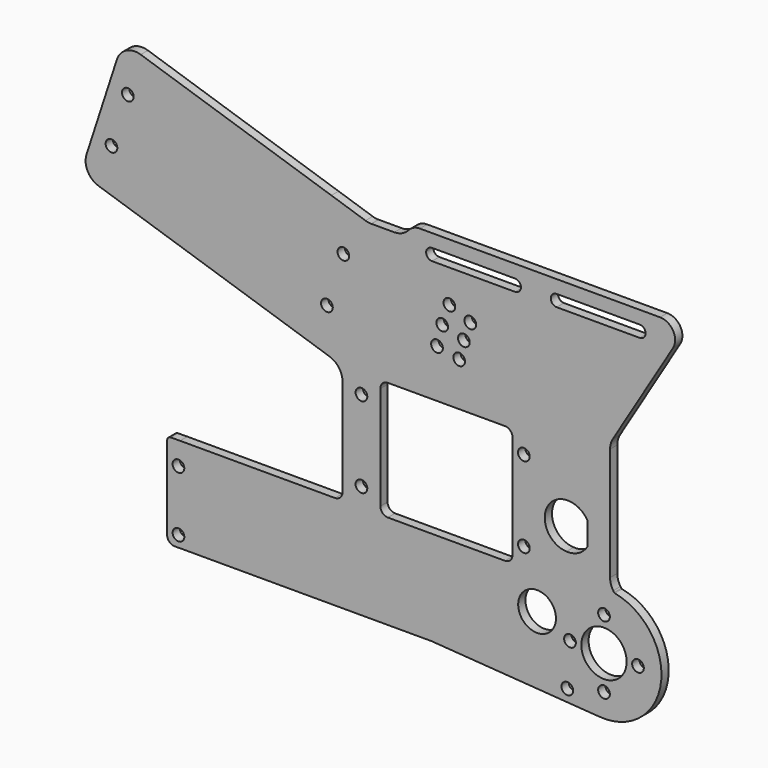
from build123d import *

# Parameters (mm, degrees)
F0_R     = 1.55
F0_R_2   = 5
F0_R_3   = 6
F1_DEPTH = 2.4


with BuildPart() as f1:
    # F0 (on Front) → F1 (new body)
    with BuildSketch(Plane.XZ):
        with BuildLine():
            Line((-113.922411, -36.624175), (-112.515368, -36.601163))
            Line((-112.515368, -36.601163), (-45.969084, -36.601163))
            Line((-45.969084, -36.601163), (-1.763381, -39.740575))
            ThreePointArc((-1.763381, -39.740575), (14.757574, -26.757854), (2.545472, -9.659388))
            ThreePointArc((2.545472, -9.659388), (2.450522, -9.620676), (2.378003, -9.548185))
            Line((2.378003, -9.548185), (2.141578, -9.192446))
            ThreePointArc((2.141578, -9.192446), (1.519301, -7.870399), (1.305798, -6.424906))
            Line((1.305798, -6.424906), (1.305798, 23.520728))
            ThreePointArc((1.305798, 23.520728), (1.489272, 24.862771), (2.026229, 26.106321))
            Line((2.026229, 26.106321), (17.961467, 52.481679))
            ThreePointArc((17.961467, 52.481679), (18.021625, 56.515619), (14.537812, 58.550154))
            Line((14.537812, 58.550154), (-28.732704, 58.550154))
            Line((-28.732704, 58.550154), (-49.044828, 58.550154))
            ThreePointArc((-49.044828, 58.550154), (-50.662338, 58.208523), (-52.003552, 57.241984))
            Line((-52.003552, 57.241984), (-52.11812, 57.116057))
            ThreePointArc((-52.11812, 57.116057), (-53.794637, 55.907885), (-55.816525, 55.480845))
            Line((-55.816525, 55.480845), (-61.90531, 55.480845))
            ThreePointArc((-61.90531, 55.480845), (-62.687482, 55.542404), (-63.450395, 55.725563))
            Line((-63.450395, 55.725563), (-72.478836, 58.659081))
            Line((-72.478836, 58.659081), (-122.961926, 75.062031))
            ThreePointArc((-122.961926, 75.062031), (-126.776963, 74.761781), (-129.262293, 71.851834))
            Line((-129.262293, 71.851834), (-129.57131, 70.900777))
            Line((-129.57131, 70.900777), (-74.332938, 52.952742))
            Line((-74.332938, 52.952742), (-68.495444, 51.056025))
            Line((-68.495444, 51.056025), (-62.997354, 49.269588))
            Line((-62.997354, 49.269588), (-70.440539, 26.36182))
            Line((-70.440539, 26.36182), (-75.938629, 28.148258))
            Line((-75.938629, 28.148258), (-81.749346, 30.127386))
            Line((-81.749346, 30.127386), (-115.36281, 41.049062))
            Line((-115.36281, 41.049062), (-136.987718, 48.075421))
            Line((-136.987718, 48.075421), (-137.296735, 47.124364))
            ThreePointArc((-137.296735, 47.124364), (-137.251084, 43.900182), (-135.246711, 41.374332))
            ThreePointArc((-135.246711, 41.374332), (-134.684364, 41.061766), (-134.086537, 40.823997))
            Line((-134.086537, 40.823997), (-72.970283, 20.966122))
            ThreePointArc((-72.970283, 20.966122), (-70.470283, 19.149766), (-69.515368, 16.210839))
            Line((-69.515368, 16.210839), (-69.515368, -9.553598))
            ThreePointArc((-69.515368, -9.553598), (-70.101155, -10.967812), (-71.515368, -11.553598))
            Line((-71.515368, -11.553598), (-74.523215, -11.553598))
            Line((-74.523215, -11.553598), (-112.515368, -11.553598))
            ThreePointArc((-112.515368, -11.553598), (-112.528511, -11.553641), (-112.541654, -11.553771))
            Line((-112.541654, -11.553771), (-114.961689, -11.569675))
            ThreePointArc((-114.961689, -11.569675), (-115.664544, -11.864874), (-115.955117, -12.569653))
            Line((-115.955117, -12.569653), (-115.955117, -34.624443))
            ThreePointArc((-115.955117, -34.624443), (-115.35772, -36.050173), (-113.922411, -36.624175))
        make_face()
        with Locations((-112.955117, -33.601163)):
            Circle(F0_R, mode=Mode.SUBTRACT)
        with Locations((-112.955117, -17.601163)):
            Circle(F0_R, mode=Mode.SUBTRACT)
        with Locations((-64.515368, -6.553598)):
            Circle(F0_R, mode=Mode.SUBTRACT)
        with Locations((-64.515368, 14.843552)):
            Circle(F0_R, mode=Mode.SUBTRACT)
        with Locations((-10.015368, -35.974115)):
            Circle(F0_R, mode=Mode.SUBTRACT)
        with Locations((-0.298833, -33.601163)):
            Circle(F0_R, mode=Mode.SUBTRACT)
        with Locations((-18.015368, -20.601163)):
            Circle(F0_R_2, mode=Mode.SUBTRACT)
        with Locations((-9.298833, -24.601163)):
            Circle(F0_R, mode=Mode.SUBTRACT)
        with Locations((-0.298833, -24.601163)):
            Circle(F0_R_3, mode=Mode.SUBTRACT)
        with Locations((8.701167, -24.601163)):
            Circle(F0_R, mode=Mode.SUBTRACT)
        with Locations((-0.298833, -15.601163)):
            Circle(F0_R, mode=Mode.SUBTRACT)
        with Locations((-21.515368, -6.553598)):
            Circle(F0_R, mode=Mode.SUBTRACT)
        with BuildLine():
            Line((-26.515368, -11.553598), (-57.515368, -11.553598))
            ThreePointArc((-57.515368, -11.553598), (-58.929582, -10.967812), (-59.515368, -9.553598))
            Line((-59.515368, -9.553598), (-59.515368, 17.843552))
            ThreePointArc((-59.515368, 17.843552), (-58.929582, 19.257766), (-57.515368, 19.843552))
            Line((-57.515368, 19.843552), (-26.515368, 19.843552))
            ThreePointArc((-26.515368, 19.843552), (-25.390432, 19.49719), (-24.655131, 18.57807))
            ThreePointArc((-24.655131, 18.57807), (-24.55062, 18.2174), (-24.515368, 17.843552))
            Line((-24.515368, 17.843552), (-24.515368, -9.553598))
            ThreePointArc((-24.515368, -9.553598), (-24.55062, -9.927447), (-24.655131, -10.288116))
            ThreePointArc((-24.655131, -10.288116), (-25.390432, -11.207236), (-26.515368, -11.553598))
        make_face(mode=Mode.SUBTRACT)
        with Locations((-21.515368, 14.843552)):
            Circle(F0_R, mode=Mode.SUBTRACT)
        with BuildLine():
            ThreePointArc((-9.597609, 7.890928), (-6.738423, 7.027389), (-4.649818, 4.892354))
            Line((-4.649818, 4.892354), (-4.649818, -1.10003))
            ThreePointArc((-4.649818, -1.10003), (-4.685937, -1.161841), (-4.722791, -1.223217))
            ThreePointArc((-4.722791, -1.223217), (-7.08024, -3.427238), (-10.238487, -4.091129))
            ThreePointArc((-10.238487, -4.091129), (-15.82221, 0.503221), (-12.932287, 7.13152))
            ThreePointArc((-12.932287, 7.13152), (-11.320202, 7.753855), (-9.597609, 7.890928))
        make_face(mode=Mode.SUBTRACT)
        with Locations((-38.631012, 31.451518)):
            Circle(F0_R, mode=Mode.SUBTRACT)
        with Locations((-44.512843, 32.636452)):
            Circle(F0_R, mode=Mode.SUBTRACT)
        with Locations((-43.13741, 38.056231)):
            Circle(F0_R, mode=Mode.SUBTRACT)
        with Locations((-41.23285, 43.326407)):
            Circle(F0_R, mode=Mode.SUBTRACT)
        with Locations((-37.400858, 36.297828)):
            Circle(F0_R, mode=Mode.SUBTRACT)
        with Locations((-35.702059, 41.000389)):
            Circle(F0_R, mode=Mode.SUBTRACT)
        with BuildLine():
            Line((-23.838282, 52.000154), (-45.838282, 52.000154))
            ThreePointArc((-45.838282, 52.000154), (-47.388282, 53.550154), (-45.838282, 55.100154))
            Line((-45.838282, 55.100154), (-23.838282, 55.100154))
            ThreePointArc((-23.838282, 55.100154), (-22.288282, 53.550154), (-23.838282, 52.000154))
        make_face(mode=Mode.SUBTRACT)
        with BuildLine():
            Line((9.161718, 52.000154), (-12.838282, 52.000154))
            ThreePointArc((-12.838282, 52.000154), (-14.388282, 53.550154), (-12.838282, 55.100154))
            Line((-12.838282, 55.100154), (9.161718, 55.100154))
            ThreePointArc((9.161718, 55.100154), (10.711718, 53.550154), (9.161718, 52.000154))
        make_face(mode=Mode.SUBTRACT)
        Polygon((-129.57131, 70.900777), (-136.987718, 48.075421), (-115.36281, 41.049062), (-81.749346, 30.127386), (-75.938629, 28.148258), (-70.440539, 26.36182), (-62.997354, 49.269588), (-68.495444, 51.056025), (-74.332938, 52.952742), align=None)
        with Locations((-73.650736, 32.662188)):
            Circle(F0_R, mode=Mode.SUBTRACT)
        with Locations((-69.297722, 46.05939)):
            Circle(F0_R, mode=Mode.SUBTRACT)
        with Locations((-130.68735, 51.285618)):
            Circle(F0_R, mode=Mode.SUBTRACT)
        with Locations((-126.361112, 64.60041)):
            Circle(F0_R, mode=Mode.SUBTRACT)
    extrude(amount=F1_DEPTH)


solid = f1.part
